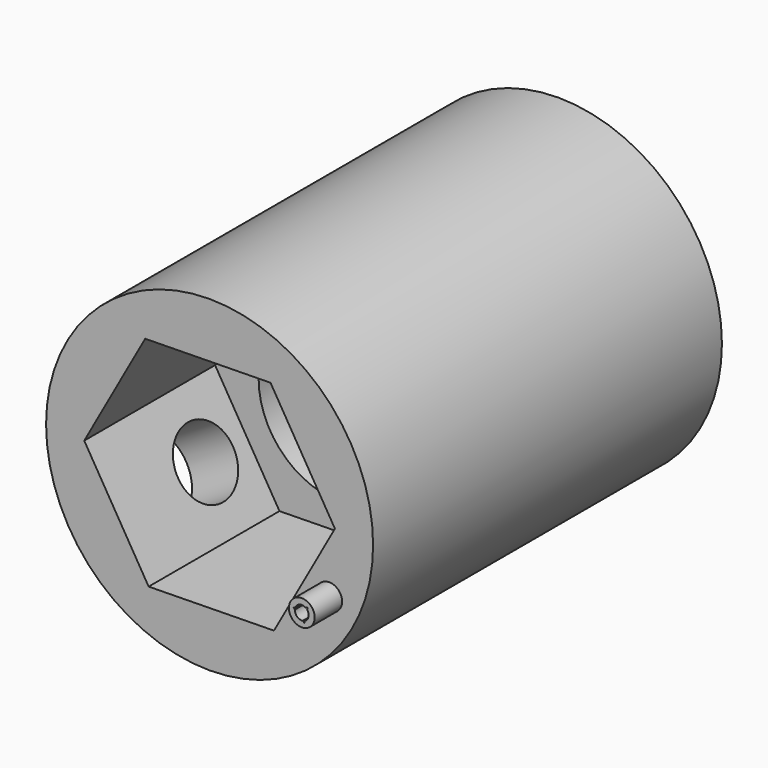
from build123d import *

# Parameters (mm, degrees)
F0_R      = 9.525
F1_DEPTH  = 25.4
F3_DEPTH  = 25.401
F4_DEPTH  = 11.0998
F6_DEPTH  = 9.525
F7_R      = 0.75
F8_DEPTH  = 2
F10_DEPTH = 27.401
F11_D     = 0.8
F12_R     = 2
F13_DEPTH = 25


with BuildPart() as f1:
    # F0 (on Front) → F1 (new body)
    with BuildSketch(Plane.XZ):
        Circle(F0_R)
    extrude(amount=F1_DEPTH)

    # F2 (on Front) → F3 (cut, through all)
    with BuildSketch(Plane.XZ):
        with BuildLine():
            ThreePointArc((4.7625, 0), (3.367596, 3.367596), (0, 4.7625))
            ThreePointArc((0, 4.7625), (-3.367596, 3.367596), (-4.7625, 0))
            ThreePointArc((-4.7625, 0), (-3.367596, -3.367596), (0, -4.7625))
            ThreePointArc((0, -4.7625), (3.367596, -3.367596), (4.7625, 0))
        make_face()
    extrude(amount=F3_DEPTH, mode=Mode.SUBTRACT)

    # F2 (on Front) → F4 (cut)
    with BuildSketch(Plane.XZ):
        with BuildLine():
            Line((4.7625, 0), (4.7625, 4.7625))
            Line((4.7625, 4.7625), (0, 4.7625))
            ThreePointArc((0, 4.7625), (3.367596, 3.367596), (4.7625, 0))
        make_face()
        with BuildLine():
            ThreePointArc((-4.7625, 0), (-3.367596, 3.367596), (0, 4.7625))
            Line((0, 4.7625), (-4.7625, 4.7625))
            Line((-4.7625, 4.7625), (-4.7625, 0))
        make_face()
        with BuildLine():
            Line((4.7625, -4.7625), (4.7625, 0))
            ThreePointArc((4.7625, 0), (3.367596, -3.367596), (0, -4.7625))
            Line((0, -4.7625), (4.7625, -4.7625))
        make_face()
        with BuildLine():
            ThreePointArc((0, -4.7625), (-3.367596, -3.367596), (-4.7625, 0))
            Line((-4.7625, 0), (-4.7625, -4.7625))
            Line((-4.7625, -4.7625), (0, -4.7625))
        make_face()
    extrude(amount=F4_DEPTH, mode=Mode.SUBTRACT)

    # F5 (on face) → F6 (cut)
    with BuildSketch(Plane.XZ.offset(25.4)):
        Polygon((7.301568, 0.116642), (3.549769, 6.381665), (-3.751799, 6.265023), (-7.301568, -0.116642), (-3.549769, -6.381665), (3.751799, -6.265023), align=None)
    extrude(amount=-F6_DEPTH, mode=Mode.SUBTRACT)

    # F7 (on face) → F8 (join)
    with BuildSketch(Plane.XZ.offset(25.4)):
        with Locations((6.970895, -3.485664)):
            Circle(F7_R)
    extrude(amount=F8_DEPTH)

    # F9 (on face) → F10 (cut, through all)
    with BuildSketch(Plane.XZ.offset(27.4)):
        Polygon((7.117352, -3.963734), (7.311686, -3.119794), (6.483646, -3.373465), align=None)
    extrude(amount=-F10_DEPTH, mode=Mode.SUBTRACT)

    # F11 (through all)
    with Locations(Plane.XZ.offset(27.4)):
        with Locations((6.970895, -3.485664)):
            Hole(F11_D / 2)

    # F12 (on face) → F13 (cut)
    with BuildSketch(Plane(origin=(-5.425669, 0, -3.249153), x_dir=(0, 1, 0), z_dir=(0.857928, 0, 0.513769))):
        with Locations((-18.914583, 0)):
            Circle(F12_R)
    extrude(amount=-F13_DEPTH, mode=Mode.SUBTRACT)


solid = f1.part
